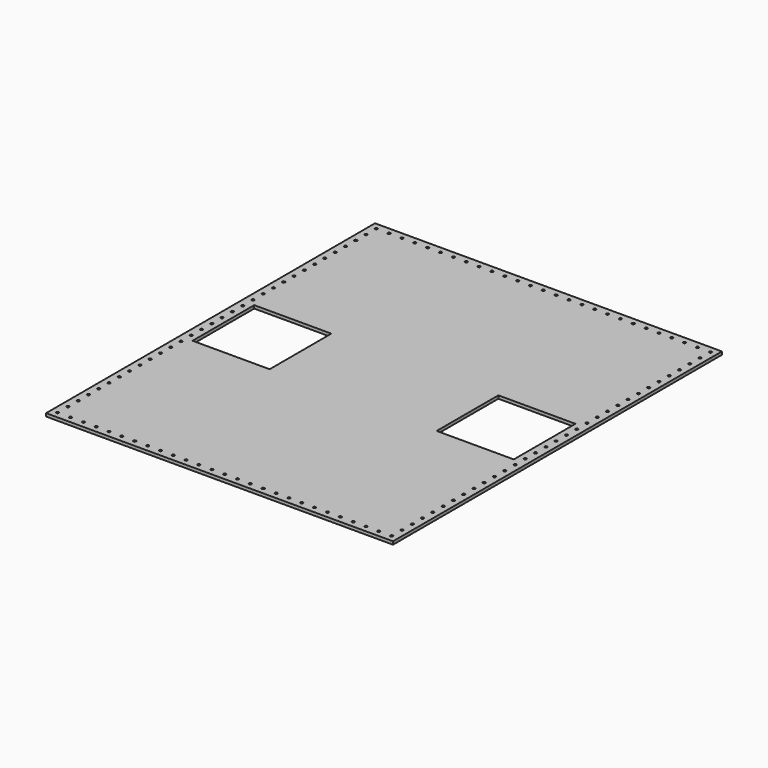
from build123d import *

# Parameters (mm, degrees)
F0_W     = 685.8
F0_H     = 812.8
F1_DEPTH = 6
F2_R     = 2.5527
F3_DEPTH = 25.4
F4_W     = 152.4
F4_H     = 152.4
F5_DEPTH = 6.001


with BuildPart() as f1:
    # F0 (on Top) → F1 (new body)
    with BuildSketch(Plane.XY):
        Rectangle(F0_W, F0_H)
    extrude(amount=F1_DEPTH)

    # F2 (on face) → F3 (cut)
    with BuildSketch(Plane.XY.offset(6)):
        with Locations((-330.2, 393.7)):
            Circle(F2_R)
        with Locations((-330.2, 368.3)):
            Circle(F2_R)
        with Locations((-330.2, 342.9)):
            Circle(F2_R)
        with Locations((-330.2, 317.5)):
            Circle(F2_R)
        with Locations((-330.2, 292.1)):
            Circle(F2_R)
        with Locations((-330.2, 266.7)):
            Circle(F2_R)
        with Locations((-330.2, 241.3)):
            Circle(F2_R)
        with Locations((-330.2, 215.9)):
            Circle(F2_R)
        with Locations((-330.2, 190.5)):
            Circle(F2_R)
        with Locations((-330.2, 165.1)):
            Circle(F2_R)
        with Locations((-330.2, 139.7)):
            Circle(F2_R)
        with Locations((-330.2, 114.3)):
            Circle(F2_R)
        with Locations((-330.2, 88.9)):
            Circle(F2_R)
        with Locations((-330.2, 63.5)):
            Circle(F2_R)
        with Locations((-330.2, 38.1)):
            Circle(F2_R)
        with Locations((-330.2, 12.7)):
            Circle(F2_R)
        with Locations((-330.2, -12.7)):
            Circle(F2_R)
        with Locations((-330.2, -38.1)):
            Circle(F2_R)
        with Locations((-330.2, -63.5)):
            Circle(F2_R)
        with Locations((-330.2, -88.9)):
            Circle(F2_R)
        with Locations((-330.2, -114.3)):
            Circle(F2_R)
        with Locations((-330.2, -139.7)):
            Circle(F2_R)
        with Locations((-330.2, -165.1)):
            Circle(F2_R)
        with Locations((-330.2, -190.5)):
            Circle(F2_R)
        with Locations((-330.2, -215.9)):
            Circle(F2_R)
        with Locations((-330.2, -241.3)):
            Circle(F2_R)
        with Locations((-330.2, -266.7)):
            Circle(F2_R)
        with Locations((-330.2, -292.1)):
            Circle(F2_R)
        with Locations((-330.2, -317.5)):
            Circle(F2_R)
        with Locations((-330.2, -342.9)):
            Circle(F2_R)
        with Locations((-330.2, -368.3)):
            Circle(F2_R)
        with Locations((-330.2, -393.7)):
            Circle(F2_R)
        with Locations((-304.8, -393.7)):
            Circle(F2_R)
        with Locations((-279.4, -393.7)):
            Circle(F2_R)
        with Locations((-254, -393.7)):
            Circle(F2_R)
        with Locations((-228.6, -393.7)):
            Circle(F2_R)
        with Locations((-203.2, -393.7)):
            Circle(F2_R)
        with Locations((-177.8, -393.7)):
            Circle(F2_R)
        with Locations((-152.4, -393.7)):
            Circle(F2_R)
        with Locations((-127, -393.7)):
            Circle(F2_R)
        with Locations((-101.6, -393.7)):
            Circle(F2_R)
        with Locations((-76.2, -393.7)):
            Circle(F2_R)
        with Locations((-50.8, -393.7)):
            Circle(F2_R)
        with Locations((-25.4, -393.7)):
            Circle(F2_R)
        with Locations((0, -393.7)):
            Circle(F2_R)
        with Locations((25.4, -393.7)):
            Circle(F2_R)
        with Locations((50.8, -393.7)):
            Circle(F2_R)
        with Locations((76.2, -393.7)):
            Circle(F2_R)
        with Locations((101.6, -393.7)):
            Circle(F2_R)
        with Locations((127, -393.7)):
            Circle(F2_R)
        with Locations((152.4, -393.7)):
            Circle(F2_R)
        with Locations((177.8, -393.7)):
            Circle(F2_R)
        with Locations((203.2, -393.7)):
            Circle(F2_R)
        with Locations((228.6, -393.7)):
            Circle(F2_R)
        with Locations((254, -393.7)):
            Circle(F2_R)
        with Locations((279.4, -393.7)):
            Circle(F2_R)
        with Locations((304.8, -393.7)):
            Circle(F2_R)
        with Locations((330.2, -393.7)):
            Circle(F2_R)
        with Locations((-304.8, 393.7)):
            Circle(F2_R)
        with Locations((-279.4, 393.7)):
            Circle(F2_R)
        with Locations((-254, 393.7)):
            Circle(F2_R)
        with Locations((-228.6, 393.7)):
            Circle(F2_R)
        with Locations((-203.2, 393.7)):
            Circle(F2_R)
        with Locations((-177.8, 393.7)):
            Circle(F2_R)
        with Locations((-152.4, 393.7)):
            Circle(F2_R)
        with Locations((-127, 393.7)):
            Circle(F2_R)
        with Locations((-101.6, 393.7)):
            Circle(F2_R)
        with Locations((-76.2, 393.7)):
            Circle(F2_R)
        with Locations((-50.8, 393.7)):
            Circle(F2_R)
        with Locations((-25.4, 393.7)):
            Circle(F2_R)
        with Locations((0, 393.7)):
            Circle(F2_R)
        with Locations((25.4, 393.7)):
            Circle(F2_R)
        with Locations((50.8, 393.7)):
            Circle(F2_R)
        with Locations((76.2, 393.7)):
            Circle(F2_R)
        with Locations((101.6, 393.7)):
            Circle(F2_R)
        with Locations((127, 393.7)):
            Circle(F2_R)
        with Locations((152.4, 393.7)):
            Circle(F2_R)
        with Locations((177.8, 393.7)):
            Circle(F2_R)
        with Locations((203.2, 393.7)):
            Circle(F2_R)
        with Locations((228.6, 393.7)):
            Circle(F2_R)
        with Locations((254, 393.7)):
            Circle(F2_R)
        with Locations((279.4, 393.7)):
            Circle(F2_R)
        with Locations((304.8, 393.7)):
            Circle(F2_R)
        with Locations((330.2, 393.7)):
            Circle(F2_R)
        with Locations((330.2, 368.3)):
            Circle(F2_R)
        with Locations((330.2, 342.9)):
            Circle(F2_R)
        with Locations((330.2, 317.5)):
            Circle(F2_R)
        with Locations((330.2, 292.1)):
            Circle(F2_R)
        with Locations((330.2, 266.7)):
            Circle(F2_R)
        with Locations((330.2, 241.3)):
            Circle(F2_R)
        with Locations((330.2, 215.9)):
            Circle(F2_R)
        with Locations((330.2, 190.5)):
            Circle(F2_R)
        with Locations((330.2, 165.1)):
            Circle(F2_R)
        with Locations((330.2, 139.7)):
            Circle(F2_R)
        with Locations((330.2, 114.3)):
            Circle(F2_R)
        with Locations((330.2, 88.9)):
            Circle(F2_R)
        with Locations((330.2, 63.5)):
            Circle(F2_R)
        with Locations((330.2, 38.1)):
            Circle(F2_R)
        with Locations((330.2, 12.7)):
            Circle(F2_R)
        with Locations((330.2, -12.7)):
            Circle(F2_R)
        with Locations((330.2, -38.1)):
            Circle(F2_R)
        with Locations((330.2, -63.5)):
            Circle(F2_R)
        with Locations((330.2, -88.9)):
            Circle(F2_R)
        with Locations((330.2, -114.3)):
            Circle(F2_R)
        with Locations((330.2, -139.7)):
            Circle(F2_R)
        with Locations((330.2, -165.1)):
            Circle(F2_R)
        with Locations((330.2, -190.5)):
            Circle(F2_R)
        with Locations((330.2, -215.9)):
            Circle(F2_R)
        with Locations((330.2, -241.3)):
            Circle(F2_R)
        with Locations((330.2, -266.7)):
            Circle(F2_R)
        with Locations((330.2, -292.1)):
            Circle(F2_R)
        with Locations((330.2, -317.5)):
            Circle(F2_R)
        with Locations((330.2, -342.9)):
            Circle(F2_R)
        with Locations((330.2, -368.3)):
            Circle(F2_R)
    extrude(amount=-F3_DEPTH, mode=Mode.SUBTRACT)

    # F4 (on face) → F5 (cut, through all)
    with BuildSketch(Plane.XY.offset(6)):
        with Locations((-241.3, 0)):
            Rectangle(F4_W, F4_H)
        with Locations((241.3, 0)):
            Rectangle(F4_W, F4_H)
    extrude(amount=-F5_DEPTH, mode=Mode.SUBTRACT)


solid = f1.part
